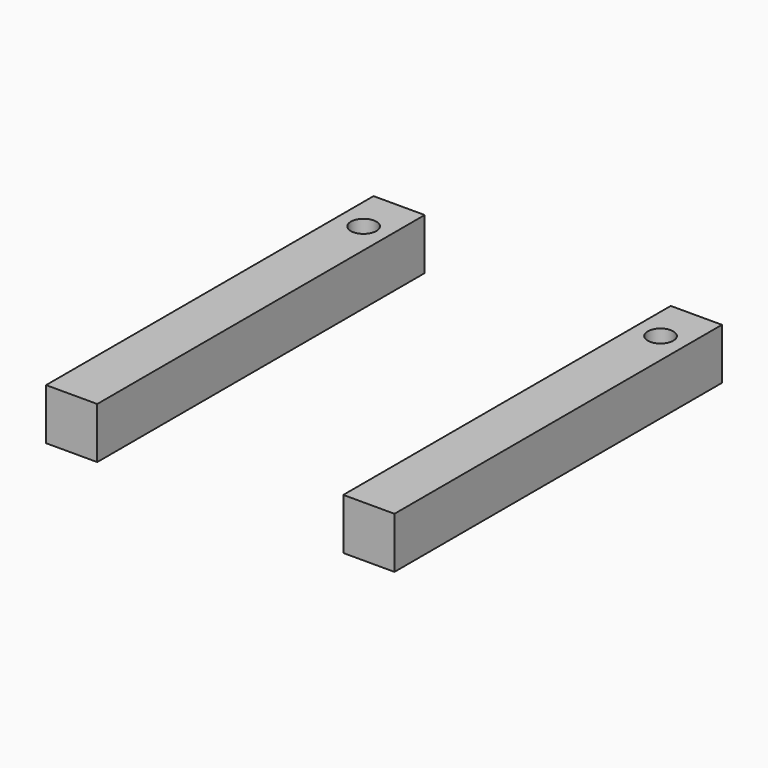
from build123d import *

# Parameters (mm, degrees)
F0_W     = 12.7
F0_H     = 101.6
F1_DEPTH = 12.7
F3_D     = 6.340754
F4_D     = 6.340754


with BuildPart() as f1:
    # F0 (on Top) → F1 (new body)
    with BuildSketch(Plane.XY):
        with Locations((-41.49677, -19.588223)):
            Rectangle(F0_W, F0_H)
        with Locations((32.28172, -19.588223)):
            Rectangle(F0_W, F0_H)
    extrude(amount=F1_DEPTH)

    # F3 (through all)
    with Locations(Plane.XY.offset(12.7)):
        with Locations((32.28172, 20.099591)):
            Hole(F3_D / 2)

    # F4 (through all)
    with Locations(Plane.XY.offset(12.7)):
        with Locations((-41.415945, 20.099591)):
            Hole(F4_D / 2)


solid = f1.part
